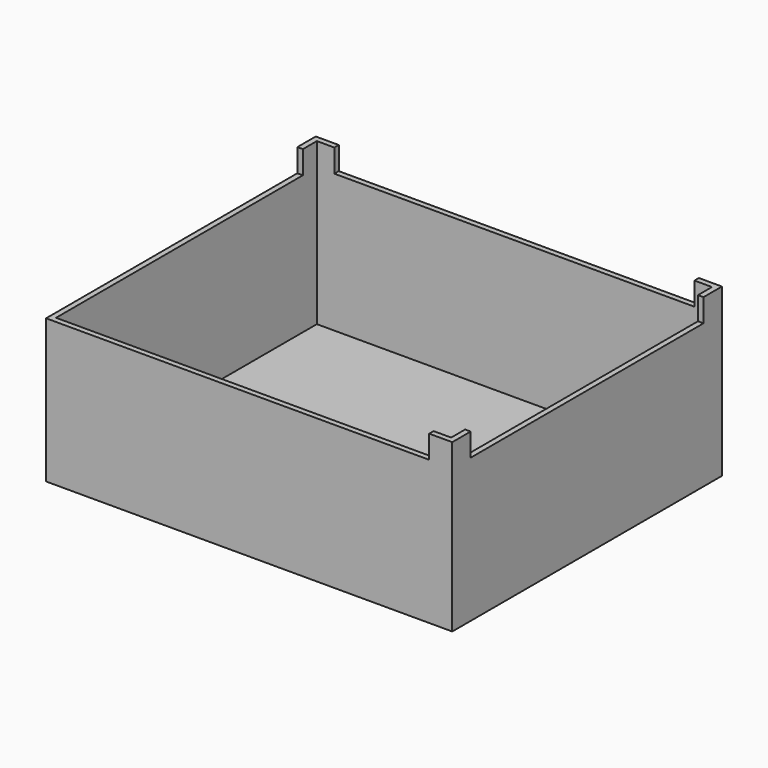
from build123d import *

# Parameters (mm, degrees)
F0_W     = 88.2
F0_H     = 73.2
F1_DEPTH = 1.2
F2_W     = 88.2
F2_H     = 73.2
F2_W_2   = 85.8
F2_H_2   = 70.8
F3_DEPTH = 30
F5_DEPTH = 5


with BuildPart() as f1:
    # F0 (on Top) → F1 (new body)
    with BuildSketch(Plane.XY):
        Rectangle(F0_W, F0_H)
    extrude(amount=F1_DEPTH)

    # F2 (on face) → F3 (join)
    with BuildSketch(Plane.XY.offset(1.2)):
        Rectangle(F2_W, F2_H)
        Rectangle(F2_W_2, F2_H_2, mode=Mode.SUBTRACT)
    extrude(amount=F3_DEPTH)

    # F4 (on face) → F5 (join)
    with BuildSketch(Plane.XY.offset(31.2)):
        Polygon((39.1, -36.6), (44.1, -36.6), (44.1, -35.4), (44.1, -31.6), (42.9, -31.6), (42.9, -35.4), (39.1, -35.4), align=None)
        Polygon((42.9, 31.6), (44.1, 31.6), (44.1, 35.4), (44.1, 36.6), (39.1, 36.6), (39.1, 35.4), (42.9, 35.4), align=None)
        Polygon((-44.1, 35.4), (-44.1, 31.6), (-42.9, 31.6), (-42.9, 35.4), (-39.1, 35.4), (-39.1, 36.6), (-44.1, 36.6), align=None)
    extrude(amount=F5_DEPTH)


solid = f1.part
